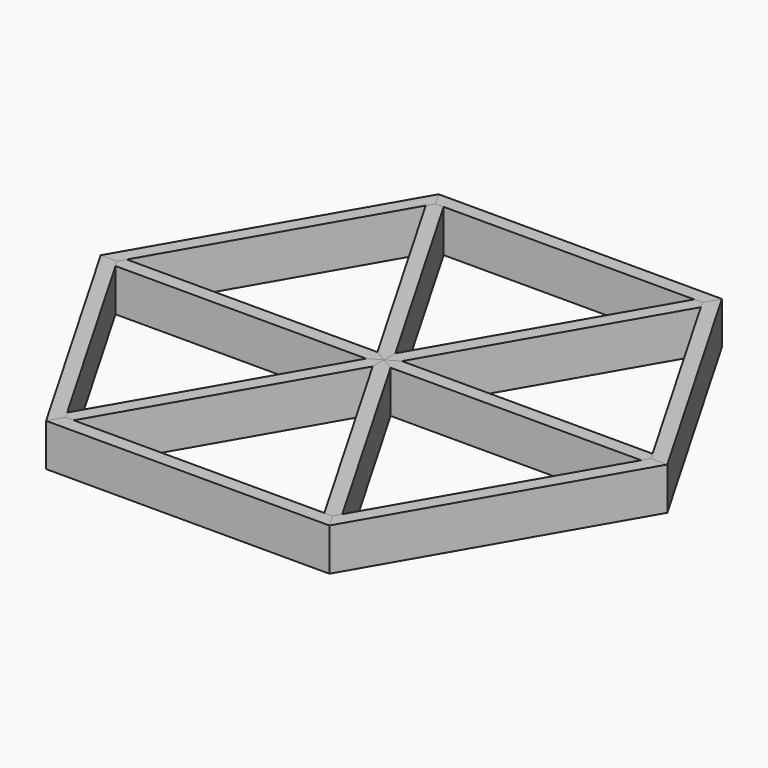
from build123d import *

# Parameters (mm, degrees)
F1_DEPTH = 9.525
F2_DEPTH = 9.525
F4_DEPTH = 9.525
F5_DEPTH = 9.525
F6_DEPTH = 9.525


with BuildPart() as f1:
    # F0 (on Top) → F1 (new body)
    with BuildSketch(Plane.XY):
        Polygon((-59.833826, 0), (-29.916913, 51.817613), (-31.75, 54.992613), (-63.5, 0), align=None)
        Polygon((31.75, 54.992613), (29.916913, 51.817613), (59.833826, 0), (63.5, 0), align=None)
        Polygon((31.75, -54.992613), (29.916913, -51.817613), (-29.916913, -51.817613), (-31.75, -54.992613), align=None)
    extrude(amount=F1_DEPTH)


with BuildPart() as f2:
    # F0 (on Top) → F2 (new body)
    with BuildSketch(Plane.XY):
        Polygon((-29.916913, -51.817613), (-59.833826, 0), (-63.5, 0), (-31.75, -54.992613), align=None)
        Polygon((-29.916913, 51.817613), (29.916913, 51.817613), (31.75, 54.992613), (-31.75, 54.992613), align=None)
        Polygon((63.5, 0), (59.833826, 0), (29.916913, -51.817613), (31.75, -54.992613), align=None)
    extrude(amount=F2_DEPTH)


with BuildPart() as f4:
    # F3 (on Top) → F4 (new body)
    with BuildSketch(Plane.XY):
        Polygon((-29.916913, 51.817613), (-30.833456, 50.230113), (-2.749631, 1.5875), (0, 0), (0, 3.175), (-28.083826, 51.817613), align=None)
        Polygon((2.749631, -1.5875), (0, 0), (0, -3.175), (28.083826, -51.817613), (29.916913, -51.817613), (30.833456, -50.230113), align=None)
    extrude(amount=F4_DEPTH)


with BuildPart() as f5:
    # F3 (on Top) → F5 (new body)
    with BuildSketch(Plane.XY):
        Polygon((0, 0), (-2.749631, 1.5875), (-58.917282, 1.5875), (-59.833826, 0), (-58.917282, -1.5875), (-2.749631, -1.5875), align=None)
        Polygon((2.749631, 1.5875), (0, 0), (2.749631, -1.5875), (58.917282, -1.5875), (59.833826, 0), (58.917282, 1.5875), align=None)
    extrude(amount=F5_DEPTH)


with BuildPart() as f6:
    # F3 (on Top) → F6 (new body)
    with BuildSketch(Plane.XY):
        Polygon((0, 3.175), (0, 0), (2.749631, 1.5875), (30.833456, 50.230113), (29.916913, 51.817613), (28.083826, 51.817613), align=None)
        Polygon((0, -3.175), (0, 0), (-2.749631, -1.5875), (-30.833456, -50.230113), (-29.916913, -51.817613), (-28.083826, -51.817613), align=None)
    extrude(amount=F6_DEPTH)


solid = Compound([f1.part, f2.part, f4.part, f5.part, f6.part])
